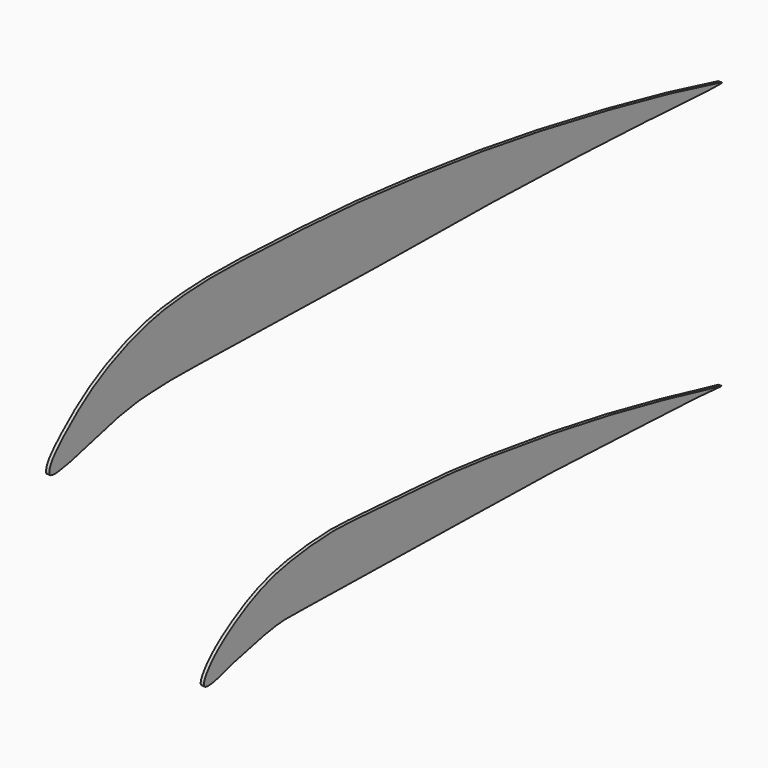
from build123d import *

# Parameters (mm, degrees)
F1_DEPTH = 15
F3_DEPTH = 15


with BuildPart() as f1:
    # F0 (on Right) → F1 (new body)
    with BuildSketch(Plane.YZ):
        with BuildLine():
            add(Edge.make_bspline(
                [(-1017.5827617226, -152.4545347222), (-1025.5019271119, -138.4447936682), (-975.4792940387, -54.9079812284), (-810.8914182418, 55.6734700218), (-612.6711395335, 150.4838887381), (-279.6062948764, 182.6753582136), (-129.6422452149, 168.9854145727), (225.5244661237, 146.8537269263), (399.8488230825, 137.0975044404), (670.1143440114, 106.1875726246), (1163.8241343777, 34.6270259419), (1597.6442770226, -55.3545595821), (1843.704574677, -112.464996744), (1884.0216820812, -125.362040971), (2044.8657853617, -155.3924051075), (1841.9092930617, -134.7547829246), (1759.8520969907, -135.9667963493), (1018.4986736794, -92.9713987883), (385.9200858697, -91.2969133817), (-29.3602799609, -76.9416991939), (-282.2410504513, -76.096759372), (-442.9654260873, -72.555297094), (-592.6971138558, -67.3177246928), (-739.7390051385, -102.6267547438), (-838.750907197, -121.3016032594), (-949.1621543224, -160.6874051016), (-1011.0582932565, -163.9969270365), (-1017.5827617226, -152.4545347222)],
                knots=[0, 0, 0, 0, 0.0252489717, 0.0638992743, 0.1050210508, 0.1532487151, 0.1882617339, 0.2382390127, 0.2746554741, 0.3181429193, 0.3793169804, 0.4382261984, 0.4786830198, 0.4989526085, 0.5243178111, 0.5535040484, 0.5817018261, 0.6533842612, 0.7248787159, 0.7793011866, 0.8216698243, 0.8556104202, 0.8887203337, 0.92167624, 0.9491409676, 0.9791977928, 1, 1, 1, 1], degree=3))
        make_face()
    extrude(amount=F1_DEPTH)


with BuildPart() as f3:
    # F2 (on Right) → F3 (new body)
    with BuildSketch(Plane.YZ):
        with BuildLine():
            add(Edge.make_bspline(
                [(-1895.4858779907, 1067.0445263386), (-1902.580936119, 1067.9776740531), (-1919.1855462771, 1071.2948586637), (-1912.2862892516, 1112.9222068339), (-1870.7579009066, 1166.7487235507), (-1724.2745357946, 1295.9026325309), (-1563.9465539646, 1386.7921333679), (-1386.6100561705, 1452.1999724323), (-1237.1122135022, 1484.5526767911), (-1055.5633748731, 1497.6945503841), (-930.3610141431, 1499.8169247738), (-716.2946665886, 1494.7661528386), (-379.9036505064, 1477.6852112447), (-100.6665663531, 1459.3967720123), (290.4752427477, 1416.9513520315), (696.0722659335, 1363.3934414802), (1203.7175584868, 1274.1765681898), (1691.4293844467, 1169.5244729741), (1922.1532136315, 1108.726488679), (2012.998544266, 1086.7760702697), (1863.5637189302, 1091.286905356), (1647.9125654365, 1107.3995941713), (1014.0048858705, 1135.8012304924), (512.3598832912, 1146.6802490881), (38.8206775739, 1149.3278132359), (-330.7120675284, 1157.8934055537), (-655.1508754096, 1166.8913624199), (-975.0145972545, 1168.7779839926), (-1139.368096543, 1177.9725646582), (-1265.0565624778, 1173.2789445559), (-1402.5973282234, 1168.9274076775), (-1551.0364245737, 1143.2435314936), (-1714.6881838895, 1094.4091066057), (-1858.6237120021, 1064.8037122414), (-1886.216047093, 1065.8253507717), (-1895.4858779907, 1067.0445263386)],
                knots=[0, 0, 0, 0, 0.0091046321, 0.0207876026, 0.0377726871, 0.0665099597, 0.0953487237, 0.1234642424, 0.1494170498, 0.1769723159, 0.2000689753, 0.2301302947, 0.2682009888, 0.3033156093, 0.3439033139, 0.3860872956, 0.4336280669, 0.4805773638, 0.5127052579, 0.5262129664, 0.5460080266, 0.5779371422, 0.6298135146, 0.677629946, 0.7223226763, 0.7620543087, 0.7997479923, 0.8367099855, 0.8631098665, 0.8859697306, 0.9101200966, 0.9355363198, 0.9633961652, 0.9881046217, 1, 1, 1, 1], degree=3))
        make_face()
    extrude(amount=F3_DEPTH)


solid = Compound([f1.part, f3.part])
